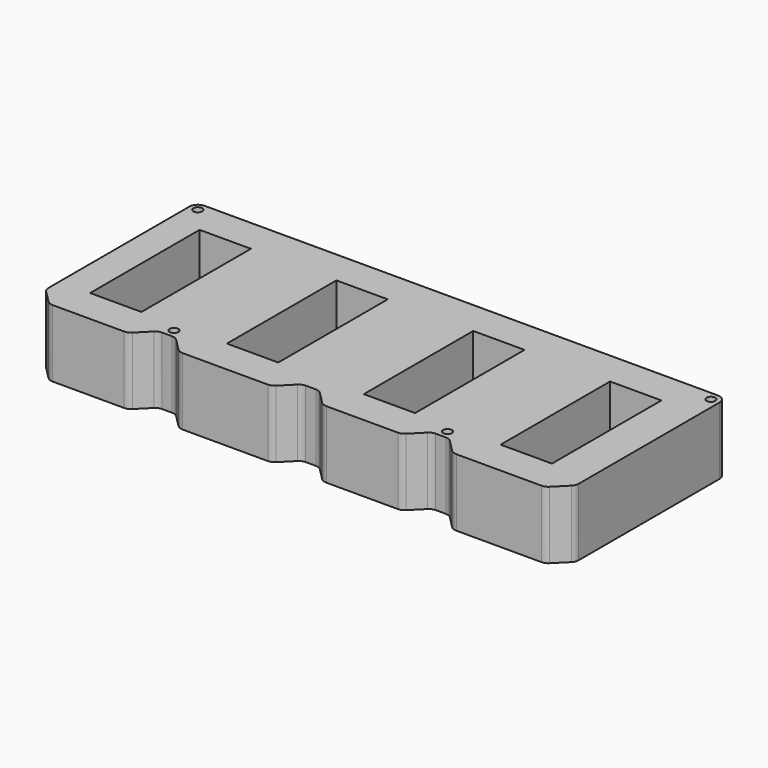
from build123d import *

# Parameters (mm, degrees)
F0_R     = 1.63195
F0_W     = 19.05
F0_H     = 50.8
F1_DEPTH = 25


with BuildPart() as f1:
    # F0 (on Top) → F1 (new body)
    with BuildSketch(Plane.XY):
        with BuildLine():
            ThreePointArc((-1670.318777, -556.544017), (-1669.288733, -557.232271), (-1668.073713, -557.473953))
            Line((-1668.073713, -557.473953), (-1636.413969, -557.473953))
            ThreePointArc((-1636.413969, -557.473953), (-1635.198949, -557.232271), (-1634.168905, -556.544017))
            Line((-1634.168905, -556.544017), (-1629.678777, -552.053889))
            ThreePointArc((-1629.678777, -552.053889), (-1628.648733, -551.365636), (-1627.433713, -551.123953))
            Line((-1627.433713, -551.123953), (-1623.713969, -551.123953))
            ThreePointArc((-1623.713969, -551.123953), (-1622.498949, -551.365636), (-1621.468905, -552.053889))
            Line((-1621.468905, -552.053889), (-1616.978777, -556.544017))
            ThreePointArc((-1616.978777, -556.544017), (-1615.948733, -557.232271), (-1614.733713, -557.473953))
            Line((-1614.733713, -557.473953), (-1588.153969, -557.473953))
            ThreePointArc((-1588.153969, -557.473953), (-1586.938949, -557.232271), (-1585.908905, -556.544017))
            Line((-1585.908905, -556.544017), (-1581.418777, -552.053889))
            ThreePointArc((-1581.418777, -552.053889), (-1580.388733, -551.365636), (-1579.173713, -551.123953))
            Line((-1579.173713, -551.123953), (-1575.453969, -551.123953))
            ThreePointArc((-1575.453969, -551.123953), (-1574.238949, -551.365636), (-1573.208905, -552.053889))
            Line((-1573.208905, -552.053889), (-1568.718777, -556.544017))
            ThreePointArc((-1568.718777, -556.544017), (-1567.688733, -557.232271), (-1566.473713, -557.473953))
            Line((-1566.473713, -557.473953), (-1534.813969, -557.473953))
            ThreePointArc((-1534.813969, -557.473953), (-1533.598949, -557.232271), (-1532.568905, -556.544017))
            Line((-1532.568905, -556.544017), (-1528.078777, -552.053889))
            ThreePointArc((-1528.078777, -552.053889), (-1527.390523, -551.023845), (-1527.148841, -549.808825))
            Line((-1527.148841, -549.808825), (-1527.148841, -484.448953))
            ThreePointArc((-1527.148841, -484.448953), (-1528.078777, -482.203889), (-1530.323841, -481.273953))
            Line((-1530.323841, -481.273953), (-1720.823841, -481.273953))
            ThreePointArc((-1720.823841, -481.273953), (-1723.068905, -482.203889), (-1723.998841, -484.448953))
            Line((-1723.998841, -484.448953), (-1723.998841, -549.808825))
            ThreePointArc((-1723.998841, -549.808825), (-1723.757158, -551.023845), (-1723.068905, -552.053889))
            Line((-1723.068905, -552.053889), (-1718.578777, -556.544017))
            ThreePointArc((-1718.578777, -556.544017), (-1717.548733, -557.232271), (-1716.333713, -557.473953))
            Line((-1716.333713, -557.473953), (-1689.753969, -557.473953))
            ThreePointArc((-1689.753969, -557.473953), (-1688.538949, -557.232271), (-1687.508905, -556.544017))
            Line((-1687.508905, -556.544017), (-1683.018777, -552.053889))
            ThreePointArc((-1683.018777, -552.053889), (-1681.988733, -551.365636), (-1680.773713, -551.123953))
            Line((-1680.773713, -551.123953), (-1677.053969, -551.123953))
            ThreePointArc((-1677.053969, -551.123953), (-1675.838949, -551.365636), (-1674.808905, -552.053889))
            Line((-1674.808905, -552.053889), (-1670.318777, -556.544017))
        make_face()
        with Locations((-1678.913841, -547.948953)):
            Circle(F0_R, mode=Mode.SUBTRACT)
        with Locations((-1577.313841, -547.948953)):
            Circle(F0_R, mode=Mode.SUBTRACT)
        with Locations((-1703.043841, -519.373953)):
            Rectangle(F0_W, F0_H, mode=Mode.SUBTRACT)
        with Locations((-1652.243841, -519.373953)):
            Rectangle(F0_W, F0_H, mode=Mode.SUBTRACT)
        with Locations((-1720.823841, -484.448953)):
            Circle(F0_R, mode=Mode.SUBTRACT)
        with Locations((-1601.443841, -519.373953)):
            Rectangle(F0_W, F0_H, mode=Mode.SUBTRACT)
        with Locations((-1550.643841, -519.373953)):
            Rectangle(F0_W, F0_H, mode=Mode.SUBTRACT)
        with Locations((-1530.323841, -484.448953)):
            Circle(F0_R, mode=Mode.SUBTRACT)
    extrude(amount=F1_DEPTH)


solid = f1.part
